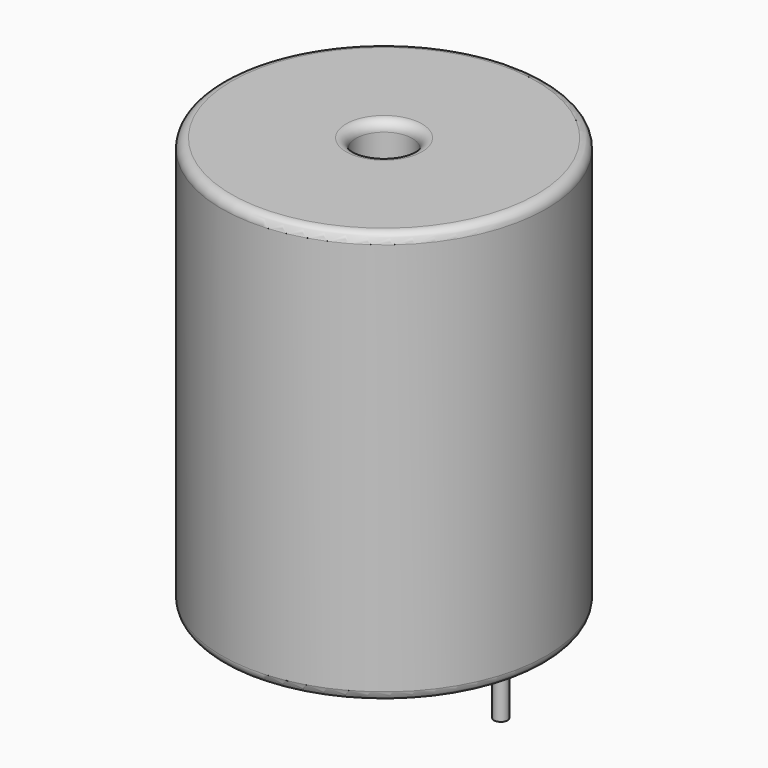
from build123d import *

# Parameters (mm, degrees)
SKETCH001_R       = 0.35
PAD001_DEPTH      = 10.67
PAD001_DEPTH_BACK = 3.5
SKETCH_R          = 8.4
SKETCH_R_2        = 1.46
PAD_DEPTH         = 21.34
FILLET_R          = 0.5


with BuildPart() as pad001:
    # Sketch001 → Pad001 (new body, two sides)
    with BuildSketch(Plane.XY.offset(0.5)) as pad001_sk:
        Circle(SKETCH001_R)
        with Locations((12.07, 0)):
            Circle(SKETCH001_R)
    extrude(amount=PAD001_DEPTH)
    extrude(pad001_sk.sketch, amount=-PAD001_DEPTH_BACK)


with BuildPart() as fillet_body:
    # Sketch → Pad (new body)
    with BuildSketch(Plane.XY.offset(0.1)):
        with Locations((6.035, 0)):
            Circle(SKETCH_R)
        with Locations((6.035, 0)):
            Circle(SKETCH_R_2, mode=Mode.SUBTRACT)
    extrude(amount=PAD_DEPTH)

    # Fillet
    fillet_edges = [fillet_body.edges().sort_by_distance(p)[0] for p in [
        (4.575, 0, 21.44),
        (-2.365, 0, 21.44),
        (-2.365, 0, 0.1),
    ]]
    fillet(fillet_edges, radius=FILLET_R)


solid = Compound([pad001.part, fillet_body.part])
